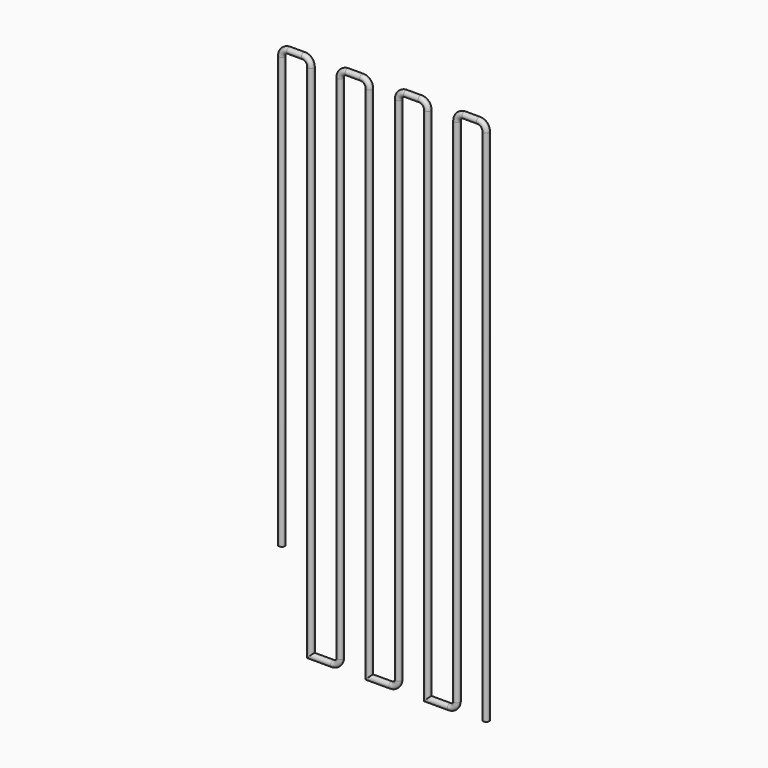
from build123d import *

# Parameters (mm, degrees)
F2_R   = 10.31875
F2_R_2 = 9.525


with BuildPart() as f3:
    # F3: sweep along a path in F0
    with BuildLine(Plane.XZ) as f3_path:
        Line((-936.2868666649, -737.5802305222), (-936.2868666649, 761.0197694778))
        ThreePointArc((-936.2868666649, 761.0197694778), (-928.847378907, 778.98028172), (-910.8868666649, 786.4197694778))
        Line((-910.8868666649, 786.4197694778), (-860.0868666649, 786.4197694778))
        ThreePointArc((-860.0868666649, 786.4197694778), (-842.1263544227, 778.98028172), (-834.6868666649, 761.0197694778))
        Line((-834.6868666649, 761.0197694778), (-834.6868666649, -1042.3802305222))
        Line((-834.6868666649, -1042.3802305222), (-758.4868666649, -1042.3802305222))
        ThreePointArc((-758.4868666649, -1042.3802305222), (-740.5263544227, -1034.9407427643), (-733.0868666649, -1016.9802305222))
        Line((-733.0868666649, -1016.9802305222), (-733.0868666649, 761.0197694778))
        ThreePointArc((-733.0868666649, 761.0197694778), (-725.647378907, 778.98028172), (-707.6868666649, 786.4197694778))
        Line((-707.6868666649, 786.4197694778), (-656.8868666649, 786.4197694778))
        ThreePointArc((-656.8868666649, 786.4197694778), (-638.9263544227, 778.98028172), (-631.4868666649, 761.0197694778))
        Line((-631.4868666649, 761.0197694778), (-631.4868666649, -1042.3802305222))
        Line((-631.4868666649, -1042.3802305222), (-555.2868666649, -1042.3802305222))
        ThreePointArc((-555.2868666649, -1042.3802305222), (-537.3263544227, -1034.9407427643), (-529.8868666649, -1016.9802305222))
        Line((-529.8868666649, -1016.9802305222), (-529.8868666649, 761.0197694778))
        ThreePointArc((-529.8868666649, 761.0197694778), (-522.447378907, 778.98028172), (-504.4868666649, 786.4197694778))
        Line((-504.4868666649, 786.4197694778), (-453.6868666649, 786.4197694778))
        ThreePointArc((-453.6868666649, 786.4197694778), (-435.7263544227, 778.98028172), (-428.2868666649, 761.0197694778))
        Line((-428.2868666649, 761.0197694778), (-428.2868666649, -1042.3802305222))
        Line((-428.2868666649, -1042.3802305222), (-352.0868666649, -1042.3802305222))
        ThreePointArc((-352.0868666649, -1042.3802305222), (-334.1263544227, -1034.9407427643), (-326.6868666649, -1016.9802305222))
        Line((-326.6868666649, -1016.9802305222), (-326.6868666649, 761.0197694778))
        ThreePointArc((-326.6868666649, 761.0197694778), (-319.247378907, 778.98028172), (-301.2868666649, 786.4197694778))
        Line((-301.2868666649, 786.4197694778), (-250.4868666649, 786.4197694778))
        ThreePointArc((-250.4868666649, 786.4197694778), (-232.5263544227, 778.98028172), (-225.0868666649, 761.0197694778))
        Line((-225.0868666649, 761.0197694778), (-225.0868666649, -1042.3802305222))
    # F2 (on plane+point) → F3 (sweep)
    with BuildSketch(Plane.XY.offset(-737.5802305222)):
        with Locations((-936.2868666649, 0)):
            Circle(F2_R)
        with Locations((-936.2868666649, 0)):
            Circle(F2_R_2, mode=Mode.SUBTRACT)
    sweep(path=f3_path.line, transition=Transition.RIGHT)


solid = f3.part
